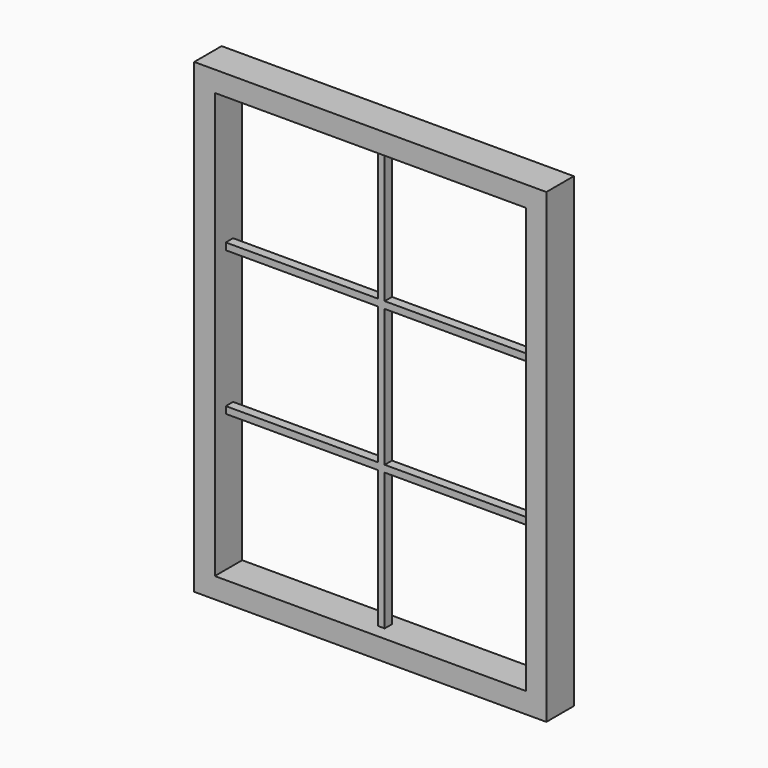
from build123d import *

# Parameters (mm, degrees)
F0_W          = 770
F0_H          = 1020
F0_W_2        = 680
F0_H_2        = 930
F1_DEPTH      = 50
F1_DEPTH_BACK = 25
F3_DEPTH      = 20


with BuildPart() as f1:
    # F0 (on Front) → F1 (new body, two sides)
    with BuildSketch(Plane.XZ) as f1_sk:
        with Locations((-3.138587, -7.724169)):
            Rectangle(F0_W, F0_H)
        with Locations((-3.138587, -7.724169)):
            Rectangle(F0_W_2, F0_H_2, mode=Mode.SUBTRACT)
    extrude(amount=F1_DEPTH)
    extrude(f1_sk.sketch, amount=-F1_DEPTH_BACK)

    # F2 (on Front) → F3 (join)
    with BuildSketch(Plane.XZ):
        Polygon((4.361413, 457.275831), (-10.638587, 457.275831), (-10.638587, 157.275831), (-343.138587, 157.275831), (-343.138587, 142.275831), (-10.638587, 142.275831), (-10.638587, -157.724169), (-343.138587, -157.724169), (-343.138587, -172.724169), (-10.638587, -172.724169), (-10.638587, -472.724169), (4.361413, -472.724169), (4.361413, -172.724169), (336.861413, -172.724169), (336.861413, -157.724169), (4.361413, -157.724169), (4.361413, 142.275831), (336.861413, 142.275831), (336.861413, 157.275831), (4.361413, 157.275831), align=None)
    extrude(amount=F3_DEPTH)


solid = f1.part
